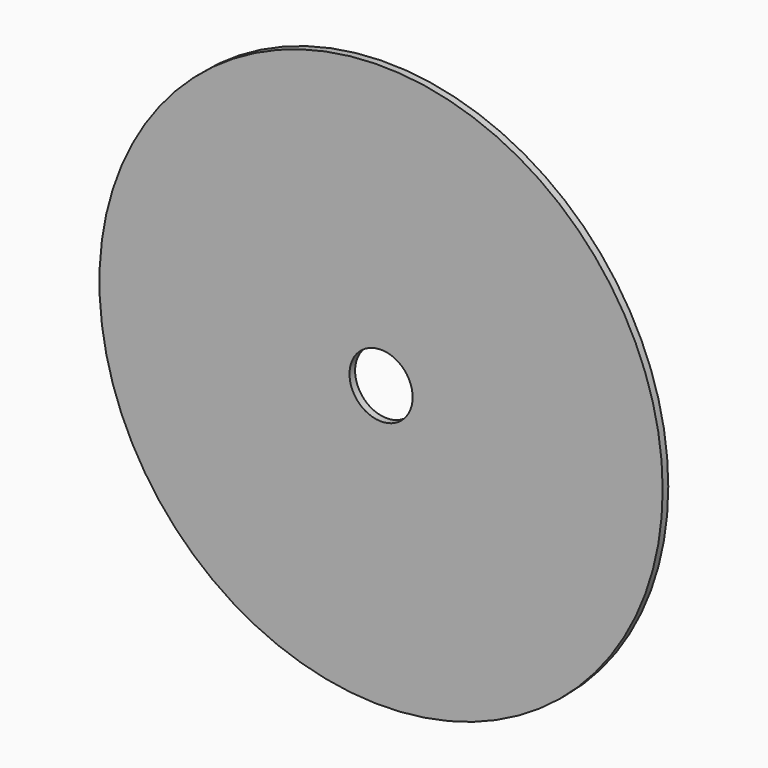
from build123d import *

# Parameters (mm, degrees)
SKETCH_R          = 80.25
PAD_DEPTH         = 2
SKETCH001_R       = 9
POCKET_DEPTH      = 0.001
POCKET_DEPTH_BACK = -2.001


with BuildPart() as part:
    # Sketch → Pad (new body)
    with BuildSketch(Plane.XZ):
        Circle(SKETCH_R)
    extrude(amount=PAD_DEPTH)

    # Sketch001 → Pocket (cut, two sides)
    with BuildSketch(Plane.XZ) as pocket_sk:
        Circle(SKETCH001_R)
    extrude(amount=-POCKET_DEPTH, mode=Mode.SUBTRACT)
    extrude(pocket_sk.sketch, amount=-POCKET_DEPTH_BACK, mode=Mode.SUBTRACT)


solid = part.part
